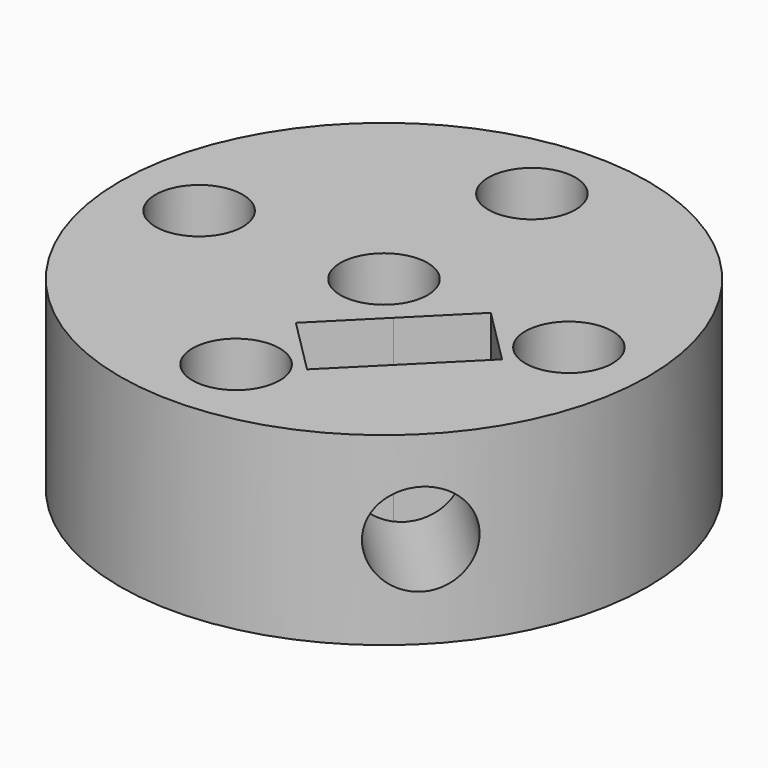
from build123d import *

# Parameters (mm, degrees)
F0_R          = 10
F0_R_2        = 1.65
F1_DEPTH      = 7
F2_R          = 1.75
F3_DEPTH      = 25
F3_DEPTH_BACK = 5


with BuildPart() as f1:
    # F0 (on Top) → F1 (new body)
    with BuildSketch(Plane.XY):
        Circle(F0_R)
        with Locations((0, -7)):
            Circle(F0_R_2, mode=Mode.SUBTRACT)
        Polygon((-0.2828427125, -3.8183766184), (1.767766953, -1.767766953), (3.8183766184, 0.2828427125), (5.939696962, -1.8384776311), (1.8384776311, -5.939696962), align=None, mode=Mode.SUBTRACT)
        with Locations((-7, 0)):
            Circle(F0_R_2, mode=Mode.SUBTRACT)
        with BuildLine():
            ThreePointArc((1.166726189, -1.166726189), (-1.5244012286, 0.6314276634), (1.65, 0))
            ThreePointArc((1.65, 0), (1.5244012286, -0.6314276634), (1.166726189, -1.166726189))
        make_face(mode=Mode.SUBTRACT)
        with Locations((7, 0)):
            Circle(F0_R_2, mode=Mode.SUBTRACT)
        with Locations((0, 7)):
            Circle(F0_R_2, mode=Mode.SUBTRACT)
    extrude(amount=F1_DEPTH)

    # F2 (on face) → F3 (cut, two sides)
    with BuildSketch(Plane(origin=(3.8890872965, -3.8890872965, 0), x_dir=(-0.7071067812, -0.7071067812, 0), z_dir=(-0.7071067812, 0.7071067812, 0))) as f3_sk:
        with Locations((0, 3.5)):
            Circle(F2_R)
    extrude(amount=-F3_DEPTH, mode=Mode.SUBTRACT)
    extrude(f3_sk.sketch, amount=F3_DEPTH_BACK, mode=Mode.SUBTRACT)


solid = f1.part
